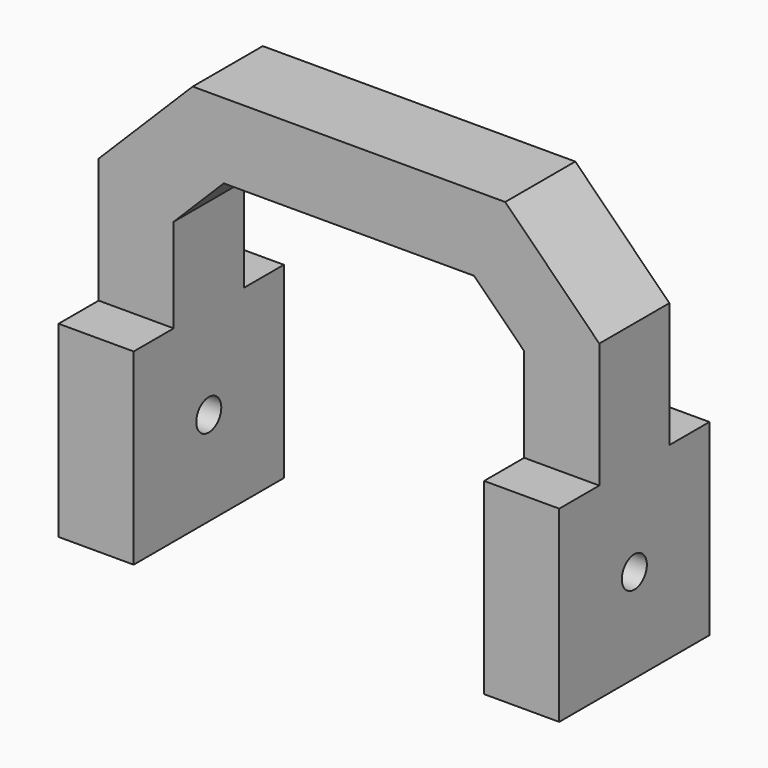
from build123d import *

# Parameters (mm, degrees)
F1_DEPTH = 70
F2_W     = 150
F2_H     = 150
F3_DEPTH = 60
F4_W     = 150
F4_H     = 150
F5_DEPTH = 60
F6_R     = 12.5
F7_DEPTH = 400.001


with BuildPart() as f1:
    # F0 (on Front) → F1 (new body)
    with BuildSketch(Plane.XZ):
        Polygon((-200, 0), (-140, 0), (-140, 150), (-100, 190), (100, 190), (140, 150), (140, 0), (200, 0), (200, 174.852814), (124.852814, 250), (-124.852814, 250), (-200, 174.852814), align=None)
    extrude(amount=F1_DEPTH)

    # F2 (on face) → F3 (join, through all)
    with BuildSketch(Plane.YZ.offset(200)):
        with Locations((-35, 0)):
            Rectangle(F2_W, F2_H)
    extrude(amount=-F3_DEPTH)

    # F4 (on face) → F5 (join, through all)
    with BuildSketch(Plane(origin=(-200, 0, 0), x_dir=(0, -1, 0), z_dir=(-1, 0, 0))):
        with Locations((35, 0)):
            Rectangle(F4_W, F4_H)
    extrude(amount=-F5_DEPTH)

    # F6 (on face) → F7 (cut, through all)
    with BuildSketch(Plane.YZ.offset(200)):
        with Locations((-35, 0)):
            Circle(F6_R)
    extrude(amount=-F7_DEPTH, mode=Mode.SUBTRACT)


solid = f1.part
